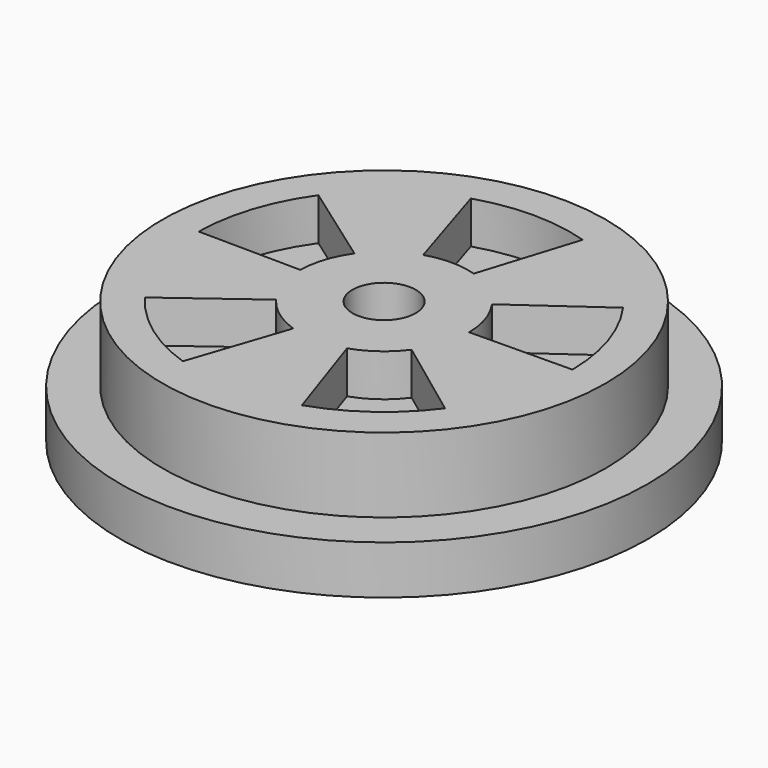
from build123d import *

# Parameters (mm, degrees)
F0_R     = 3.175
F1_DEPTH = 0.5842
F2_R     = 2.667
F3_DEPTH = 0.89916
F4_R     = 0.381
F5_DEPTH = 25.4
F7_DEPTH = 0.508


with BuildPart() as f1:
    # F0 (on Top) → F1 (new body)
    with BuildSketch(Plane.XY):
        Circle(F0_R)
    extrude(amount=F1_DEPTH)

    # F2 (on face) → F3 (join)
    with BuildSketch(Plane.XY.offset(0.5842)):
        Circle(F2_R)
    extrude(amount=F3_DEPTH)

    # F4 (on face) → F5 (cut)
    with BuildSketch(Plane.XY.offset(1.48336)):
        Circle(F4_R)
    extrude(amount=-F5_DEPTH, mode=Mode.SUBTRACT)

    # F6 (on face) → F7 (cut)
    with BuildSketch(Plane.XY.offset(1.48336)):
        with BuildLine():
            ThreePointArc((-0.303926, 0.968739), (0, 1.015296), (0.303926, 0.968739))
            Line((0.303926, 0.968739), (0.672974, 2.145047))
            ThreePointArc((0.672974, 2.145047), (0, 2.248137), (-0.672974, 2.145047))
            Line((-0.672974, 2.145047), (-0.303926, 0.968739))
        make_face()
        with BuildLine():
            Line((-0.827407, 0.588408), (-1.832101, 1.302892))
            ThreePointArc((-1.832101, 1.302892), (-2.138105, 0.694713), (-2.248021, 0.02282))
            Line((-2.248021, 0.02282), (-1.015244, 0.010306))
            ThreePointArc((-1.015244, 0.010306), (-0.965604, 0.313744), (-0.827407, 0.588408))
        make_face()
        with BuildLine():
            Line((-0.815292, -0.605083), (-1.805274, -1.339815))
            ThreePointArc((-1.805274, -1.339815), (-1.321422, -1.818781), (-0.71638, -2.130944))
            Line((-0.71638, -2.130944), (-0.323529, -0.962369))
            ThreePointArc((-0.323529, -0.962369), (-0.596776, -0.821392), (-0.815292, -0.605083))
        make_face()
        with BuildLine():
            Line((0.323529, -0.962369), (0.71638, -2.130944))
            ThreePointArc((0.71638, -2.130944), (1.321422, -1.818781), (1.805274, -1.339815))
            Line((1.805274, -1.339815), (0.815292, -0.605083))
            ThreePointArc((0.815292, -0.605083), (0.596776, -0.821392), (0.323529, -0.962369))
        make_face()
        with BuildLine():
            Line((1.015244, 0.010306), (2.248021, 0.02282))
            ThreePointArc((2.248021, 0.02282), (2.138105, 0.694713), (1.832101, 1.302892))
            Line((1.832101, 1.302892), (0.827407, 0.588408))
            ThreePointArc((0.827407, 0.588408), (0.965604, 0.313744), (1.015244, 0.010306))
        make_face()
    extrude(amount=-F7_DEPTH, mode=Mode.SUBTRACT)


solid = f1.part
